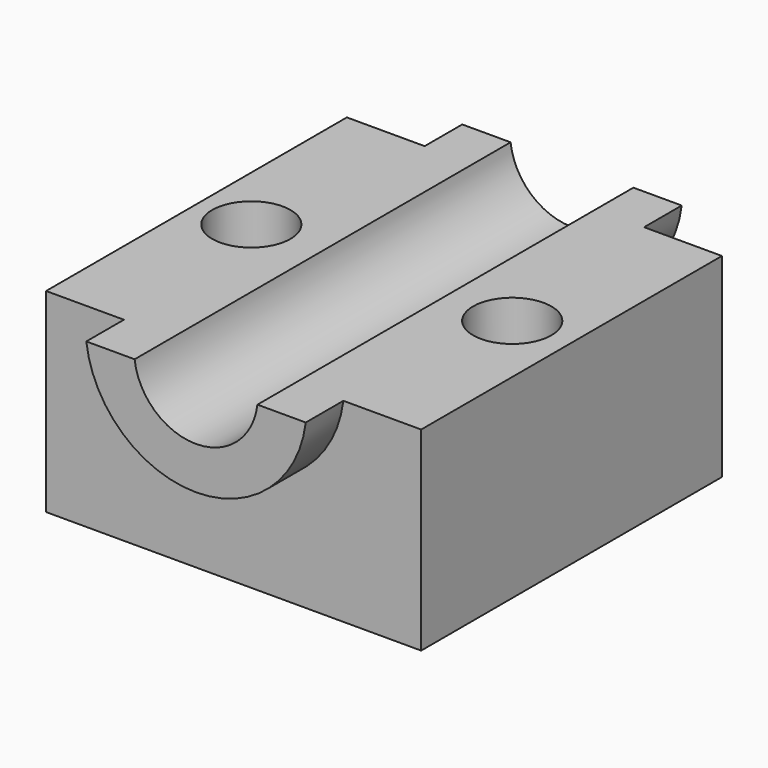
from build123d import *

# Parameters (mm, degrees)
F1_DEPTH      = 150
F1_DEPTH_BACK = 150
F0_W          = 49.675524
F0_H          = 124.247186
F2_DEPTH      = 120
F2_DEPTH_BACK = 120
F4_D          = 50
F5_D          = 50


with BuildPart() as f1:
    # F0 (on Front) → F1 (new body, two sides)
    with BuildSketch(Plane.XZ) as f1_sk:
        with BuildLine():
            Line((-39.200012, 62.123593), (-70.046909, 62.123593))
            ThreePointArc((-70.046909, 62.123593), (0, 0.094575), (70.046909, 62.123593))
            Line((70.046909, 62.123593), (39.200012, 62.123593))
            Line((39.200012, 62.123593), (39.200012, 26.869994))
            Line((39.200012, 26.869994), (-39.200012, 26.869994))
            Line((-39.200012, 26.869994), (-39.200012, 62.123593))
        make_face()
        with BuildLine():
            ThreePointArc((39.200012, 62.123593), (0, 27.270557), (-39.200012, 62.123593))
            Line((-39.200012, 62.123593), (-39.200012, 26.869994))
            Line((-39.200012, 26.869994), (39.200012, 26.869994))
            Line((39.200012, 26.869994), (39.200012, 62.123593))
        make_face()
    extrude(amount=F1_DEPTH)
    extrude(f1_sk.sketch, amount=-F1_DEPTH_BACK)

    # F0 (on Front) → F2 (join, two sides)
    with BuildSketch(Plane.XZ) as f2_sk:
        with Locations((-94.884671, 0)):
            Rectangle(F0_W, F0_H)
        with BuildLine():
            ThreePointArc((70.046909, 62.123593), (0, 0.094575), (-70.046909, 62.123593))
            Line((-70.046909, 62.123593), (-70.046909, -62.123593))
            Line((-70.046909, -62.123593), (70.046909, -62.123593))
            Line((70.046909, -62.123593), (70.046909, 62.123593))
        make_face()
        with Locations((94.884671, 0)):
            Rectangle(F0_W, F0_H)
    extrude(amount=F2_DEPTH)
    extrude(f2_sk.sketch, amount=-F2_DEPTH_BACK)

    # F4 (through all)
    with Locations(Plane.XY):
        with Locations((-84.698744, 0), (81.866011, 0)):
            Hole(F4_D / 2)

    # F5 (through all)
    with Locations(Plane(origin=(0, 0, 0), x_dir=(1, 0, 0), z_dir=(0, 0, -1))):
        with Locations((-84.698744, 0), (81.866011, 0)):
            Hole(F5_D / 2)


solid = f1.part
